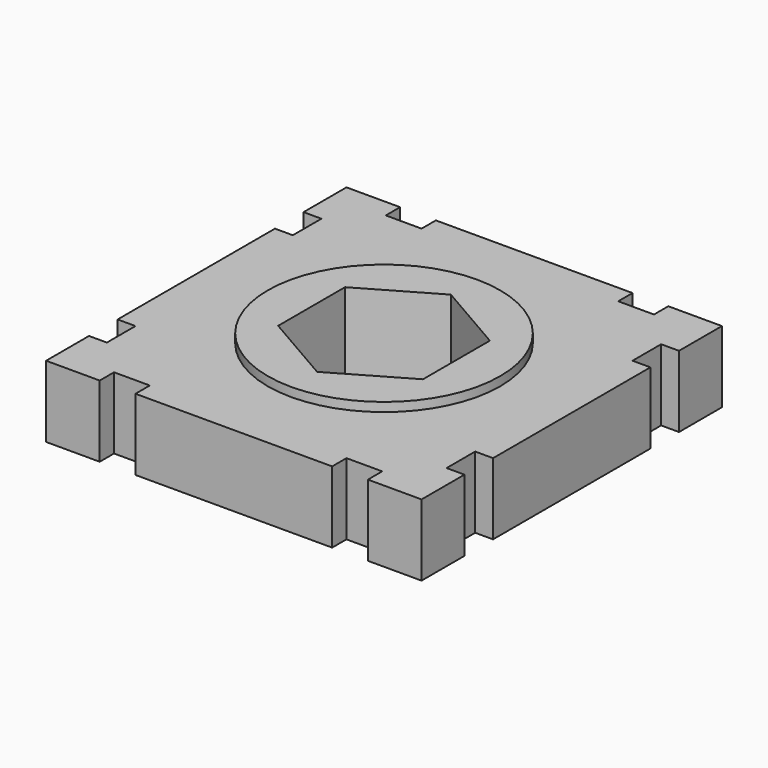
from build123d import *

# Parameters (mm, degrees)
F0_R     = 6.5
F1_DEPTH = 4
F2_DEPTH = 4.5


with BuildPart() as f1:
    # F0 (on Top) → F1 (new body)
    with BuildSketch(Plane.XY):
        Polygon((7.5, -10.5), (10.5, -10.5), (10.5, -7.5), (9.5, -7.5), (9.5, -5.5), (10.5, -5.5), (10.5, 5.5), (9.5, 5.5), (9.5, 7.5), (10.5, 7.5), (10.5, 10.5), (7.5, 10.5), (7.5, 9.5), (5.5, 9.5), (5.5, 10.5), (-5.5, 10.5), (-5.5, 9.5), (-7.5, 9.5), (-7.5, 10.5), (-10.5, 10.5), (-10.5, 7.5), (-9.5, 7.5), (-9.5, 5.5), (-10.5, 5.5), (-10.5, -5.5), (-9.5, -5.5), (-9.5, -7.5), (-10.5, -7.5), (-10.5, -10.5), (-7.5, -10.5), (-7.5, -9.5), (-5.5, -9.5), (-5.5, -10.5), (5.5, -10.5), (5.5, -9.5), (7.5, -9.5), align=None)
        Circle(F0_R, mode=Mode.SUBTRACT)
    extrude(amount=F1_DEPTH)

    # F0 (on Top) → F2 (join)
    with BuildSketch(Plane.XY):
        Circle(F0_R)
        Polygon((4.05, 2.338269), (4.05, -2.338269), (0, -4.676537), (-4.05, -2.338269), (-4.05, 2.338269), (0, 4.676537), align=None, mode=Mode.SUBTRACT)
    extrude(amount=F2_DEPTH)


solid = f1.part
